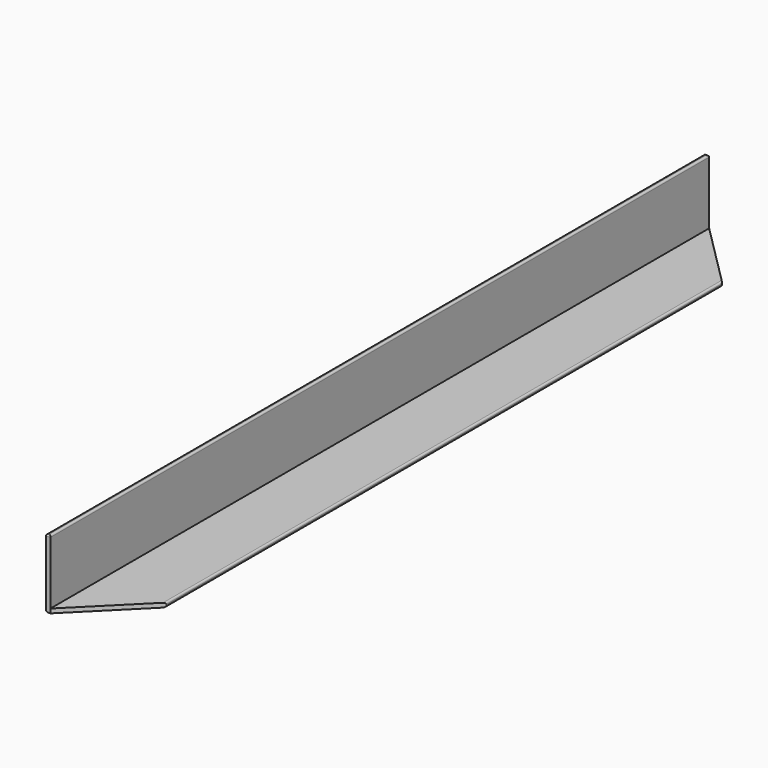
from build123d import *

# Parameters (mm, degrees)
F1_DEPTH = 609.6
F3_R     = 1.27
F4_DEPTH = 3.81
F6_DEPTH = 3.81
F7_R     = 1.27
F8_R     = 1.27


with BuildPart() as f1:
    # F0 (on Front) → F1 (new body)
    with BuildSketch(Plane.XZ):
        Polygon((0, 50.8), (0, 0), (50.8, 0), (50.8, 3.175), (3.175, 3.175), (3.175, 50.8), align=None)
    extrude(amount=F1_DEPTH)

    # F3
    f3_edges = [f1.edges().sort_by_distance(p)[0] for p in [
        (3.175, -304.8, 50.8),
        (0, -304.8, 50.8),
        (1.5875, 0, 50.8),
        (1.5875, -609.6, 50.8),
    ]]
    fillet(f3_edges, radius=F3_R)

    # F2 (on face) → F4 (cut)
    with BuildSketch(Plane.XY.offset(3.175)):
        Polygon((50.8, 0), (3.175, 0), (50.8, -47.625), align=None)
    extrude(amount=-F4_DEPTH, mode=Mode.SUBTRACT)

    # F5 (on face) → F6 (cut)
    with BuildSketch(Plane.XY.offset(3.175)):
        Polygon((50.8, -561.975), (3.175, -609.6), (50.8, -609.6), align=None)
    extrude(amount=-F6_DEPTH, mode=Mode.SUBTRACT)

    # F7
    f7_edges = [f1.edges().sort_by_distance(p)[0] for p in [
        (50.8, -304.8, 3.175),
        (50.8, -561.975, 1.5875),
        (50.8, -304.8, 0),
        (50.8, -47.625, 1.5875),
    ]]
    fillet(f7_edges, radius=F7_R)

    # F8
    f8_edges = [f1.edges().sort_by_distance(p)[0] for p in [
        (0, -304.8, 0),
    ]]
    fillet(f8_edges, radius=F8_R)


solid = f1.part
